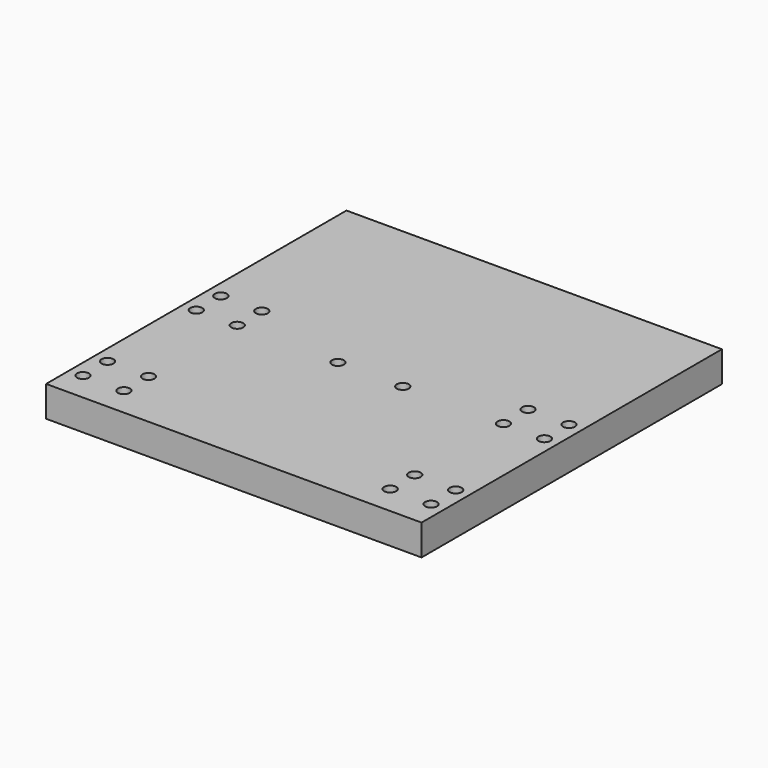
from build123d import *

# Parameters (mm, degrees)
CYLINDER002_R     = 3.5
CYLINDER002_DEPTH = 8
CYLINDER003_R     = 2
CYLINDER003_DEPTH = 25
CYLINDER001_R     = 3.5
CYLINDER001_DEPTH = 8
CYLINDER_R        = 2
CYLINDER_DEPTH    = 25
CYLINDER007_R     = 3.5
CYLINDER007_DEPTH = 8
CYLINDER006_R     = 2
CYLINDER006_DEPTH = 25
CYLINDER008_R     = 3.5
CYLINDER008_DEPTH = 8
CYLINDER009_R     = 2
CYLINDER009_DEPTH = 25
CYLINDER005_R     = 3.5
CYLINDER005_DEPTH = 8
CYLINDER004_R     = 2
CYLINDER004_DEPTH = 25
CYLINDER011_R     = 3.5
CYLINDER011_DEPTH = 8
CYLINDER010_R     = 2
CYLINDER010_DEPTH = 25
CYLINDER012_R     = 3.5
CYLINDER012_DEPTH = 8
CYLINDER013_R     = 2
CYLINDER013_DEPTH = 25
CYLINDER015_R     = 3.5
CYLINDER015_DEPTH = 8
CYLINDER014_R     = 2
CYLINDER014_DEPTH = 25
CYLINDER017_R     = 3.5
CYLINDER017_DEPTH = 8
CYLINDER016_R     = 2
CYLINDER016_DEPTH = 25
BOX_W             = 110
BOX_H             = 220
BOX_DEPTH         = 18


with BuildPart() as cilindro002:
    # Cylinder002 → Cylinder002 (new body)
    with BuildSketch(Plane(origin=(8, 17, 14), x_dir=(1, 0, 0), z_dir=(0, 0, 1))):
        Circle(CYLINDER002_R)
    extrude(amount=CYLINDER002_DEPTH)


with BuildPart() as fusion001:
    # Cylinder003 → Cylinder003 (new body)
    with BuildSketch(Plane(origin=(8, 17, 0), x_dir=(1, 0, 0), z_dir=(0, 0, 1))):
        Circle(CYLINDER003_R)
    extrude(amount=CYLINDER003_DEPTH)

    # Fusion001: union Cilindro002
    add(cilindro002.part)


with BuildPart() as fusion001_1:
    # Fusion001 placement: moved
    add(fusion001.part.moved(Location((24, 0, 0))))


with BuildPart() as cilindro001:
    # Cylinder001 → Cylinder001 (new body)
    with BuildSketch(Plane(origin=(8, 17, 14), x_dir=(1, 0, 0), z_dir=(0, 0, 1))):
        Circle(CYLINDER001_R)
    extrude(amount=CYLINDER001_DEPTH)


with BuildPart() as fusion003:
    # Cylinder → Cylinder (new body)
    with BuildSketch(Plane(origin=(8, 17, 0), x_dir=(1, 0, 0), z_dir=(0, 0, 1))):
        Circle(CYLINDER_R)
    extrude(amount=CYLINDER_DEPTH)

    # Fusion: union Cilindro001
    add(cilindro001.part)

    # Fusion003: union Fusion001
    add(fusion001_1.part)


with BuildPart() as cilindro007:
    # Cylinder007 → Cylinder007 (new body)
    with BuildSketch(Plane(origin=(8, 17, 14), x_dir=(1, 0, 0), z_dir=(0, 0, 1))):
        Circle(CYLINDER007_R)
    extrude(amount=CYLINDER007_DEPTH)


with BuildPart() as fusion006:
    # Cylinder006 → Cylinder006 (new body)
    with BuildSketch(Plane(origin=(8, 17, 0), x_dir=(1, 0, 0), z_dir=(0, 0, 1))):
        Circle(CYLINDER006_R)
    extrude(amount=CYLINDER006_DEPTH)

    # Fusion006: union Cilindro007
    add(cilindro007.part)


with BuildPart() as fusion006_1:
    # Fusion006 placement: moved
    add(fusion006.part.moved(Location((24, 0, 0))))


with BuildPart() as cilindro008:
    # Cylinder008 → Cylinder008 (new body)
    with BuildSketch(Plane(origin=(8, 17, 14), x_dir=(1, 0, 0), z_dir=(0, 0, 1))):
        Circle(CYLINDER008_R)
    extrude(amount=CYLINDER008_DEPTH)


with BuildPart() as fusion007:
    # Cylinder009 → Cylinder009 (new body)
    with BuildSketch(Plane(origin=(8, 17, 0), x_dir=(1, 0, 0), z_dir=(0, 0, 1))):
        Circle(CYLINDER009_R)
    extrude(amount=CYLINDER009_DEPTH)

    # Fusion005: union Cilindro008
    add(cilindro008.part)

    # Fusion004: union Fusion006
    add(fusion006_1.part)


with BuildPart() as fusion007_1:
    # Fusion004 placement: moved
    add(fusion007.part.moved(Location((0, 18, 0))))

    # Fusion007: union Fusion003
    add(fusion003.part)


with BuildPart() as cilindro005:
    # Cylinder005 → Cylinder005 (new body)
    with BuildSketch(Plane(origin=(8, 17, 14), x_dir=(1, 0, 0), z_dir=(0, 0, 1))):
        Circle(CYLINDER005_R)
    extrude(amount=CYLINDER005_DEPTH)


with BuildPart() as fusion002:
    # Cylinder004 → Cylinder004 (new body)
    with BuildSketch(Plane(origin=(8, 17, 0), x_dir=(1, 0, 0), z_dir=(0, 0, 1))):
        Circle(CYLINDER004_R)
    extrude(amount=CYLINDER004_DEPTH)

    # Fusion002: union Cilindro005
    add(cilindro005.part)


with BuildPart() as fusion002_1:
    # Fusion002 placement: moved
    add(fusion002.part.moved(Location((83, 83, 0))))


with BuildPart() as cilindro011:
    # Cylinder011 → Cylinder011 (new body)
    with BuildSketch(Plane(origin=(8, 17, 14), x_dir=(1, 0, 0), z_dir=(0, 0, 1))):
        Circle(CYLINDER011_R)
    extrude(amount=CYLINDER011_DEPTH)


with BuildPart() as fusion014:
    # Cylinder010 → Cylinder010 (new body)
    with BuildSketch(Plane(origin=(8, 17, 0), x_dir=(1, 0, 0), z_dir=(0, 0, 1))):
        Circle(CYLINDER010_R)
    extrude(amount=CYLINDER010_DEPTH)

    # Fusion014: union Cilindro011
    add(cilindro011.part)


with BuildPart() as fusion014_1:
    # Fusion014 placement: moved
    add(fusion014.part.moved(Location((24, 0, 0))))


with BuildPart() as cilindro012:
    # Cylinder012 → Cylinder012 (new body)
    with BuildSketch(Plane(origin=(8, 17, 14), x_dir=(1, 0, 0), z_dir=(0, 0, 1))):
        Circle(CYLINDER012_R)
    extrude(amount=CYLINDER012_DEPTH)


with BuildPart() as fusion012:
    # Cylinder013 → Cylinder013 (new body)
    with BuildSketch(Plane(origin=(8, 17, 0), x_dir=(1, 0, 0), z_dir=(0, 0, 1))):
        Circle(CYLINDER013_R)
    extrude(amount=CYLINDER013_DEPTH)

    # Fusion013: union Cilindro012
    add(cilindro012.part)

    # Fusion012: union Fusion014
    add(fusion014_1.part)


with BuildPart() as cilindro015:
    # Cylinder015 → Cylinder015 (new body)
    with BuildSketch(Plane(origin=(8, 17, 14), x_dir=(1, 0, 0), z_dir=(0, 0, 1))):
        Circle(CYLINDER015_R)
    extrude(amount=CYLINDER015_DEPTH)


with BuildPart() as fusion009:
    # Cylinder014 → Cylinder014 (new body)
    with BuildSketch(Plane(origin=(8, 17, 0), x_dir=(1, 0, 0), z_dir=(0, 0, 1))):
        Circle(CYLINDER014_R)
    extrude(amount=CYLINDER014_DEPTH)

    # Fusion009: union Cilindro015
    add(cilindro015.part)


with BuildPart() as fusion009_1:
    # Fusion009 placement: moved
    add(fusion009.part.moved(Location((24, 0, 0))))


with BuildPart() as cilindro017:
    # Cylinder017 → Cylinder017 (new body)
    with BuildSketch(Plane(origin=(8, 17, 14), x_dir=(1, 0, 0), z_dir=(0, 0, 1))):
        Circle(CYLINDER017_R)
    extrude(amount=CYLINDER017_DEPTH)


with BuildPart() as fusion015:
    # Cylinder016 → Cylinder016 (new body)
    with BuildSketch(Plane(origin=(8, 17, 0), x_dir=(1, 0, 0), z_dir=(0, 0, 1))):
        Circle(CYLINDER016_R)
    extrude(amount=CYLINDER016_DEPTH)

    # Fusion011: union Cilindro017
    add(cilindro017.part)

    # Fusion010: union Fusion009
    add(fusion009_1.part)


with BuildPart() as fusion015_1:
    # Fusion010 placement: moved
    add(fusion015.part.moved(Location((0, 18, 0))))

    # Fusion008: union Fusion012
    add(fusion012.part)


with BuildPart() as fusion015_2:
    # Fusion008 placement: moved
    add(fusion015_1.part.moved(Location((0, 83, 0))))

    # Fusion015: union Fusion007, Fusion002
    add(fusion007_1.part)
    add(fusion002_1.part)


with BuildPart() as cut:
    # Box → Box (new body)
    with BuildSketch(Plane.XY):
        with Locations((55, 110)):
            Rectangle(BOX_W, BOX_H)
    extrude(amount=BOX_DEPTH)

    # Cut: cut Fusion015
    add(fusion015_2.part, mode=Mode.SUBTRACT)


with BuildPart() as fusion016:
    # mirror: instance of Cut
    add(cut.part.mirror(Plane(origin=(110, 0, 0), x_dir=(0, -1, 0), z_dir=(1, 0, 0))))

    # Fusion016: union Cut
    add(cut.part)


solid = fusion016.part
